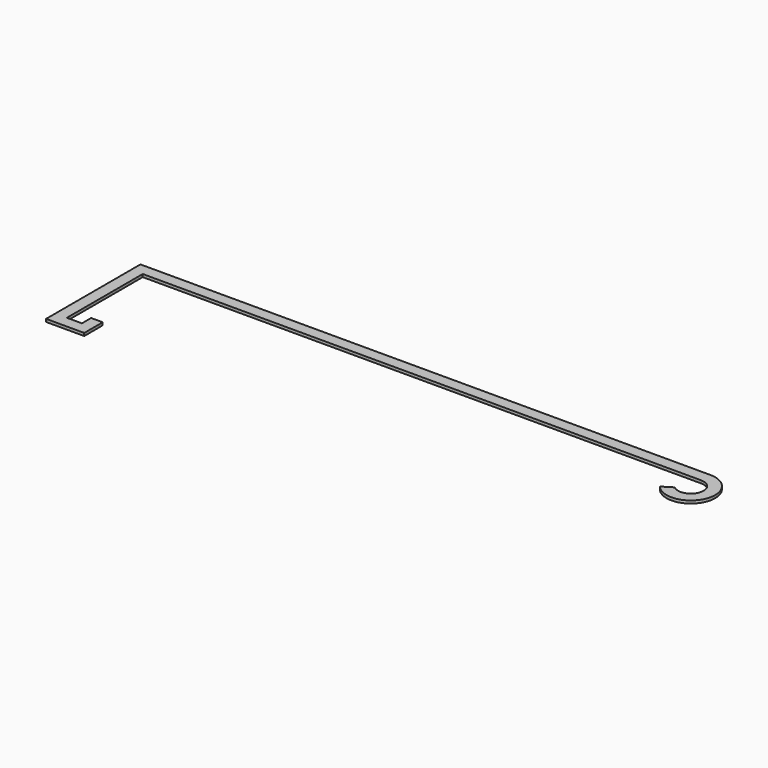
from build123d import *

# Parameters (mm, degrees)
F1_DEPTH = 1.2


with BuildPart() as f1:
    # F0 (on Top) → F1 (new body)
    with BuildSketch(Plane.XY):
        with BuildLine():
            Line((-201.25569, 51), (-201.25569, 0))
            Line((-201.25569, 0), (-184.75569, 0))
            Line((-184.75569, 0), (-184.75569, 10))
            Line((-184.75569, 10), (-189.75569, 10))
            Line((-189.75569, 10), (-189.75569, 5))
            Line((-189.75569, 5), (-196.25569, 5))
            Line((-196.25569, 5), (-196.25569, 46))
            Line((-196.25569, 46), (-184.75569, 46))
            Line((-184.75569, 46), (45.24431, 46))
            ThreePointArc((45.24431, 46), (50.378713, 38.528222), (41.562891, 36.413785))
            Line((41.562891, 36.413785), (37.243051, 33.700747))
            ThreePointArc((37.243051, 33.700747), (54.77432, 36.092175), (45.24431, 51))
            Line((45.24431, 51), (-184.75569, 51))
            Line((-184.75569, 51), (-201.25569, 51))
        make_face()
    extrude(amount=F1_DEPTH)


solid = f1.part
